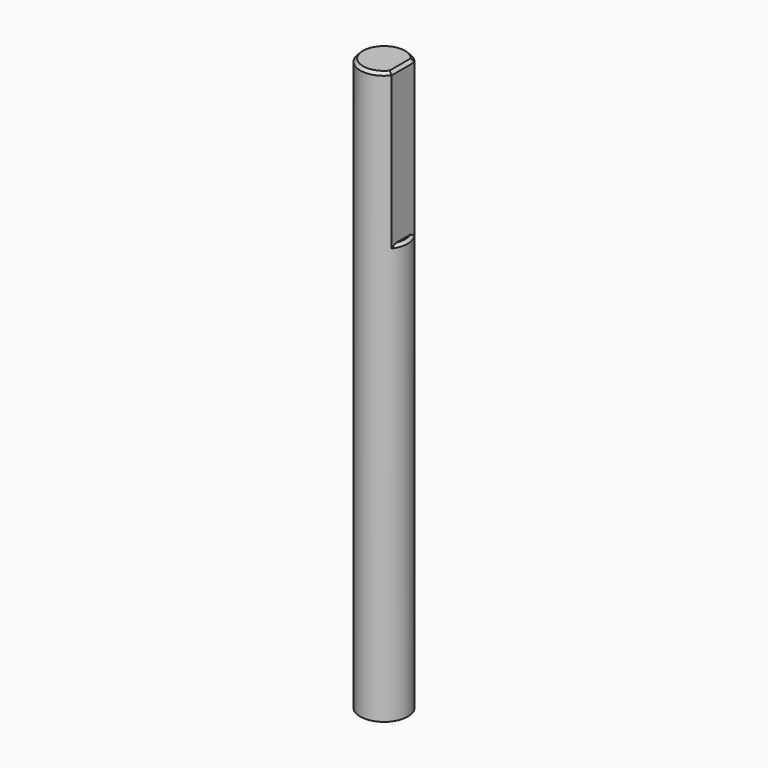
from build123d import *

# Parameters (mm, degrees)
SKETCH030_R     = 2.5
PAD012_DEPTH    = 60
SKETCH026_W     = 4
SKETCH026_H     = 4
POCKET005_DEPTH = 16
CHAMFER008_SIZE = 0.3


with BuildPart() as part:
    # Sketch030 → Pad012 (new body)
    with BuildSketch(Plane.XY):
        Circle(SKETCH030_R)
    extrude(amount=PAD012_DEPTH)

    # Sketch026 (on Face3 of Pad012) → Pocket005 (cut)
    with BuildSketch(Plane.XY.offset(60)):
        with Locations((4, 0)):
            Rectangle(SKETCH026_W, SKETCH026_H)
    extrude(amount=-POCKET005_DEPTH, mode=Mode.SUBTRACT)

    # Chamfer008
    chamfer008_edges = [part.edges().sort_by_distance(p)[0] for p in [
        (2.371708, -0.790569, 44),
        (-2.5, 0, 60),
        (2, 0, 60),
    ]]
    chamfer(chamfer008_edges, length=CHAMFER008_SIZE)


with BuildPart() as part_1:
    # Body003 placement: moved
    add(part.part.moved(Location((0, 0, 2))))


solid = part_1.part
